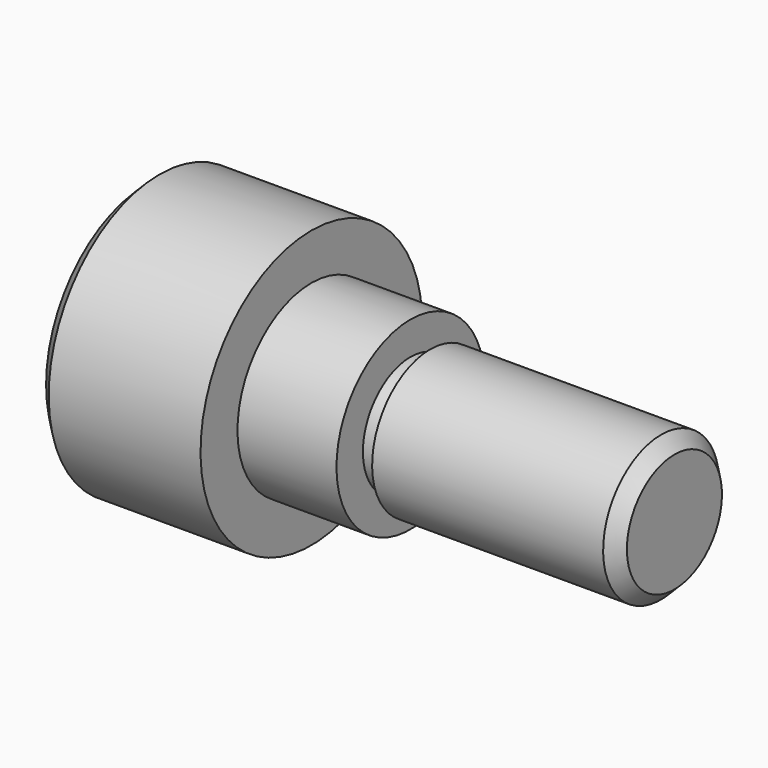
from build123d import *

# Parameters (mm, degrees)
F0_W = 3
F0_H = 9


with BuildPart() as f1:
    # F0 (on Front) → F1 (revolve)
    with BuildSketch(Plane.XZ):
        Polygon((10, 19), (10, 0), (12, 0), (12, 21), align=None)
        Polygon((12, 21), (12, 0), (35, 0), (35, 14), (35, 21), align=None)
        Polygon((35, 14), (35, 0), (50, 0), (50, 9), (50, 14), align=None)
        with Locations((51.5, 4.5)):
            Rectangle(F0_W, F0_H)
        Polygon((53, 9), (53, 0), (88, 0), (88, 11), (53, 11), align=None)
        Polygon((88, 11), (88, 0), (90, 0), (90, 9), align=None)
    revolve(axis=Axis((64.656497, 0, 0), (1, 0, 0)))


solid = f1.part
